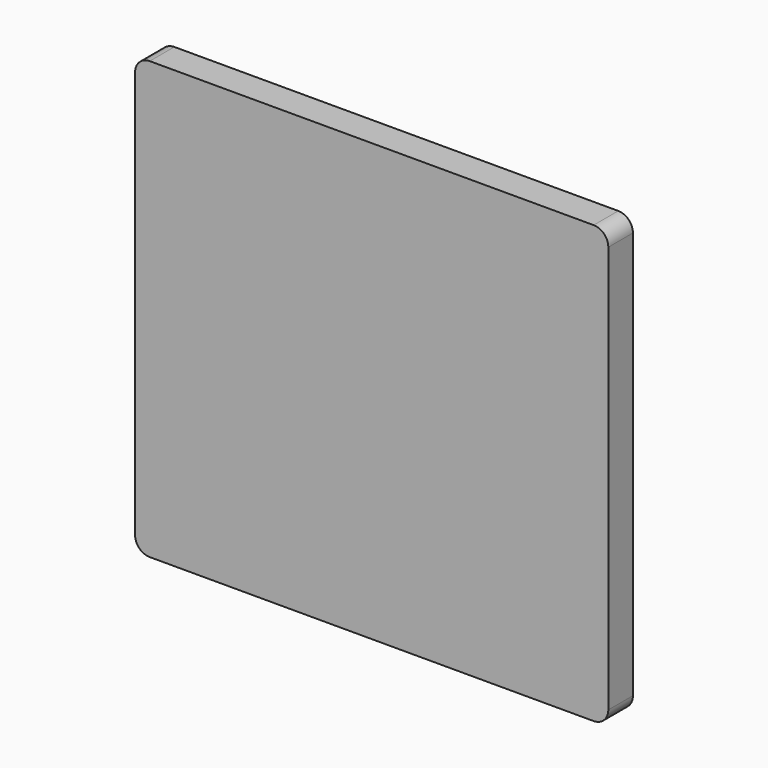
from build123d import *

# Parameters (mm, degrees)
F0_W     = 38
F0_H     = 51
F1_DEPTH = 21


with BuildPart() as f1:
    # F0 (on Front) → F1 (new body)
    with BuildSketch(Plane.XZ):
        with BuildLine():
            Line((151.5, 149), (-151.5, 149))
            ThreePointArc((-151.5, 149), (-158.5710678119, 146.0710678119), (-161.5, 139))
            Line((-161.5, 139), (-161.5, -139))
            ThreePointArc((-161.5, -139), (-158.5710678119, -146.0710678119), (-151.5, -149))
            Line((-151.5, -149), (151.5, -149))
            ThreePointArc((151.5, -149), (158.5710678119, -146.0710678119), (161.5, -139))
            Line((161.5, -139), (161.5, 139))
            ThreePointArc((161.5, 139), (158.5710678119, 146.0710678119), (151.5, 149))
        make_face()
        with Locations((0, -113)):
            Rectangle(F0_W, F0_H, mode=Mode.SUBTRACT)
        with Locations((0, -113)):
            Rectangle(F0_W, F0_H)
    extrude(amount=F1_DEPTH)


solid = f1.part
